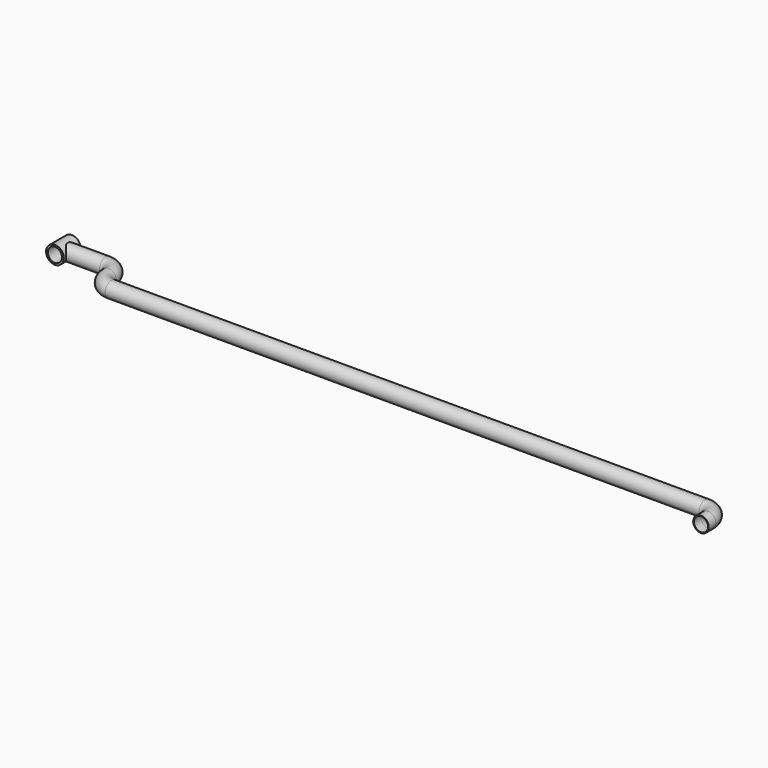
from build123d import *

# Parameters (mm, degrees)
F0_R     = 6.985
F0_R_2   = 6.35
F4_R     = 7.9375
F5_DEPTH = 9.525
F6_R     = 6.35
F7_DEPTH = 19.05


with BuildPart() as f2:
    # F2: sweep along a path in F1
    with BuildLine(Plane.XY) as f2_path:
        Line((0, 0), (0, 7.9375))
        ThreePointArc((0, 7.9375), (-3.7197438789, 16.9177561211), (-12.7, 20.6375))
        Line((-12.7, 20.6375), (-546.1, 20.6375))
        ThreePointArc((-546.1, 20.6375), (-555.0802561211, 24.3572438789), (-558.8, 33.3375))
        ThreePointArc((-558.8, 33.3375), (-562.5197438789, 42.3177561211), (-571.5, 46.0375))
        Line((-571.5, 46.0375), (-609.6, 46.0375))
    # F0 (on Front) → F2 (sweep)
    with BuildSketch(Plane.XZ):
        Circle(F0_R)
        Circle(F0_R_2, mode=Mode.SUBTRACT)
    sweep(path=f2_path.line)

    # F4 (on offset) → F5 (join, symmetric)
    with BuildSketch(Plane.XZ.offset(-46.0375)):
        with Locations((-609.6, 0)):
            Circle(F4_R)
    extrude(amount=F5_DEPTH, both=True)

    # F6 (on face) → F7 (cut, through all)
    with BuildSketch(Plane.XZ.offset(-36.5125)):
        with Locations((-609.6, 0)):
            Circle(F6_R)
    extrude(amount=-F7_DEPTH, mode=Mode.SUBTRACT)


solid = f2.part
